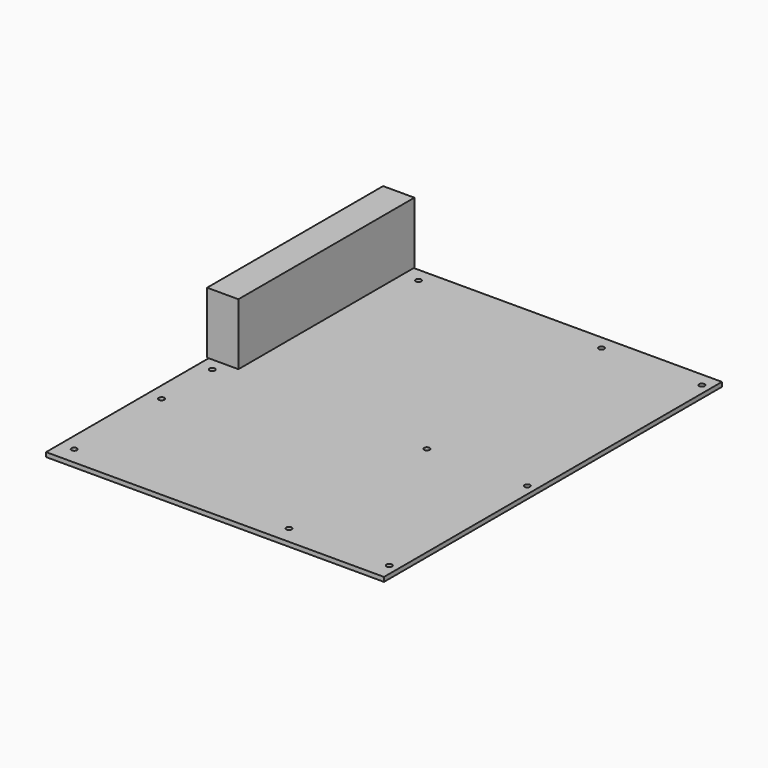
from build123d import *

# Parameters (mm, degrees)
F0_W     = 243.84
F0_H     = 304.8
F1_DEPTH = 3.175
F3_D     = 3.9624
F4_W     = 22.606
F4_H     = 158.75
F5_DEPTH = 44.45


with BuildPart() as f1:
    # F0 (on Top) → F1 (new body)
    with BuildSketch(Plane.XY):
        with Locations((-121.92, -152.4)):
            Rectangle(F0_W, F0_H)
    extrude(amount=F1_DEPTH)

    # F3 (through all)
    with Locations(Plane.XY.offset(3.175)):
        with Locations((-78.74, -10.16), (-210.82, -10.16), (-6.35, -10.16), (-78.74, -292.1), (-78.74, -167.64), (-6.35, -292.1), (-233.68, -167.64), (-233.68, -292.1), (-6.35, -167.64), (-233.68, -213.36)):
            Hole(F3_D / 2)

    # F4 (on face) → F5 (join)
    with BuildSketch(Plane.XY.offset(3.175)):
        with Locations((-233.68, -78.7654)):
            Rectangle(F4_W, F4_H)
    extrude(amount=F5_DEPTH)


solid = f1.part
